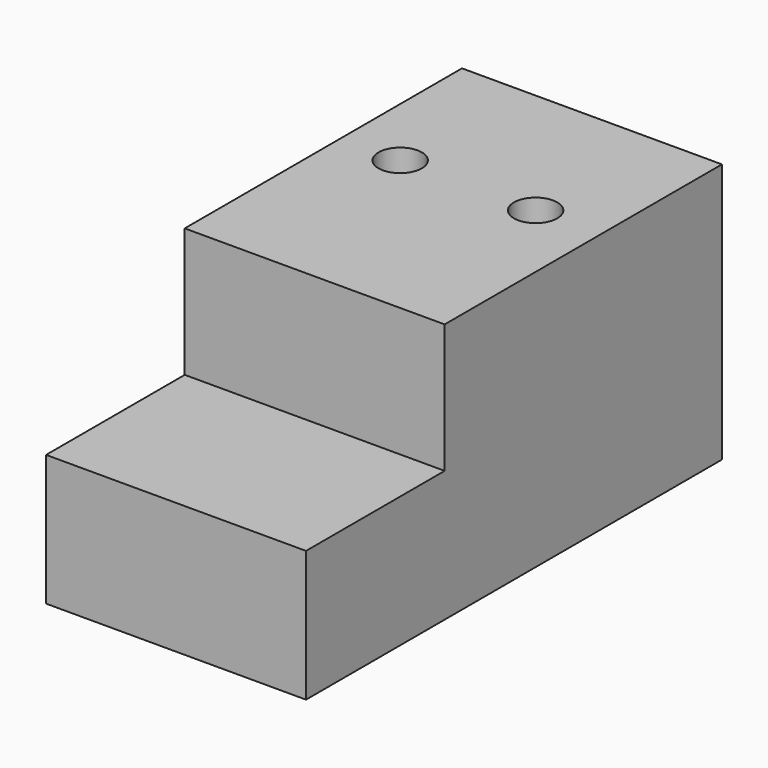
from build123d import *

# Parameters (mm, degrees)
F0_W     = 76.2
F0_H     = 152.4
F1_DEPTH = 76.2
F2_R     = 6.35
F3_DEPTH = 76.2
F4_W     = 76.2
F4_H     = 38.1
F5_DEPTH = 25.4
F6_DEPTH = 50.8


with BuildPart() as f1:
    # F0 (on Top) → F1 (new body)
    with BuildSketch(Plane.XY):
        with Locations((16.290675, -17.46637)):
            Rectangle(F0_W, F0_H)
    extrude(amount=F1_DEPTH)

    # F2 (on face) → F3 (cut)
    with BuildSketch(Plane.XY.offset(76.2)):
        with Locations((-4.356702, 14.28363)):
            Circle(F2_R)
        with Locations((35.340675, 14.28363)):
            Circle(F2_R)
    extrude(amount=-F3_DEPTH, mode=Mode.SUBTRACT)

    # F4 (on face) → F5 (cut)
    with BuildSketch(Plane.XZ.offset(93.66637)):
        with Locations((16.290675, 57.446664)):
            Rectangle(F4_W, F4_H)
    extrude(amount=-F5_DEPTH, mode=Mode.SUBTRACT)

    # F4 (on face) → F6 (cut)
    with BuildSketch(Plane.XZ.offset(93.66637)):
        with Locations((16.290675, 57.446664)):
            Rectangle(F4_W, F4_H)
    extrude(amount=-F6_DEPTH, mode=Mode.SUBTRACT)


solid = f1.part
